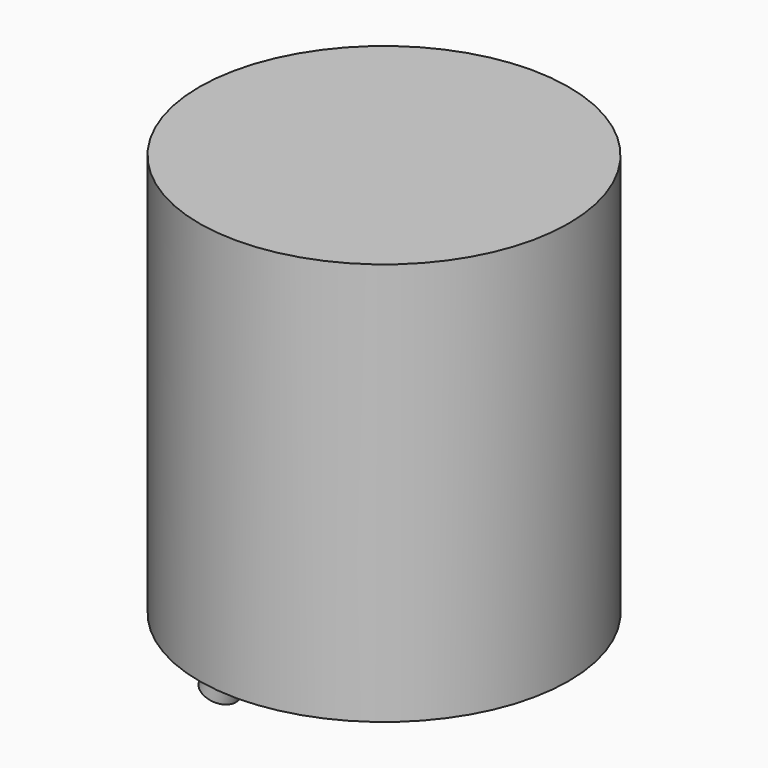
from build123d import *

# Parameters (mm, degrees)
F0_W = 38.1
F0_H = 56.9629144936


with BuildPart() as f1:
    # F0 (on Front) → F1 (revolve)
    with BuildSketch(Plane.XZ):
        Polygon((-22.603213466, -47.2052483916), (-26.2943661715, -47.2052483916), (-35.5697160982, -70.8511335249), (-31.7597160982, -70.8511335249), align=None)
    revolve(axis=Axis((-27.1814647821, 0, -59.0281909583), (-0.3611058001, 0, -0.9325248528)))

    # F0 (on Front) → F2 (revolve)
    with BuildSketch(Plane.XZ):
        with Locations((-17.4043661715, 7.3962034723)):
            Rectangle(F0_W, F0_H)
        Polygon((1.6456338285, -21.0852537746), (-36.4543661715, -21.0852537746), (-36.4543661715, -47.2052483916), (-26.2943661715, -47.2052483916), (-22.603213466, -47.2052483916), (-18.6743661715, -47.2052483916), (1.6456338285, -47.2052483916), align=None)
    revolve(axis=Axis((1.6456338285, 0, -5.6637938363), (0, 0, -1)))


solid = f1.part
